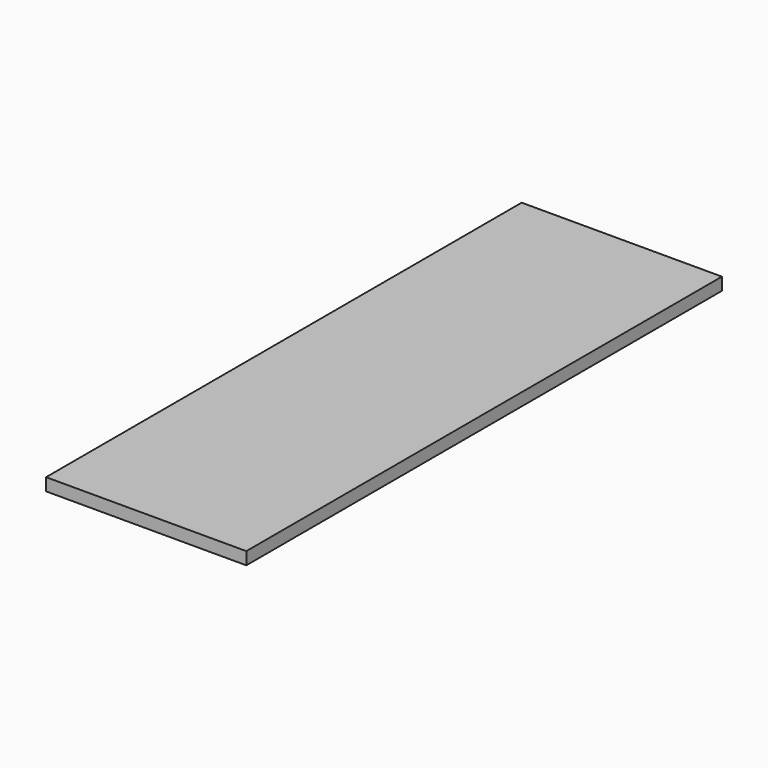
from build123d import *

# Parameters (mm, degrees)
SKETCH_W  = 32
SKETCH_H  = 95
PAD_DEPTH = 2


with BuildPart() as part:
    # Sketch → Pad (new body)
    with BuildSketch(Plane.XY):
        with Locations((16, 47.5)):
            Rectangle(SKETCH_W, SKETCH_H)
    extrude(amount=PAD_DEPTH)


solid = part.part
